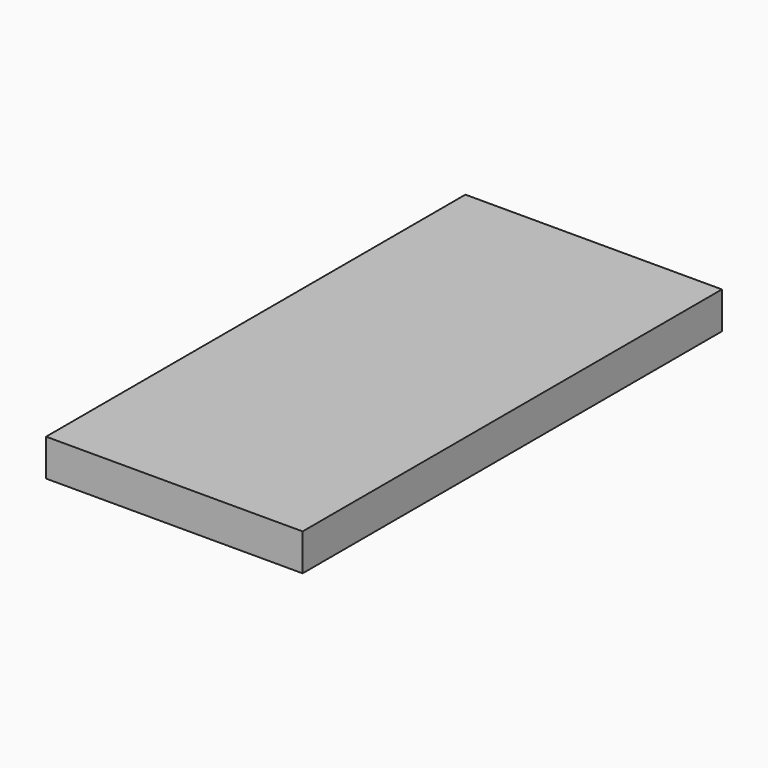
from build123d import *

# Parameters (mm, degrees)
F0_W     = 62.5
F0_H     = 127.7
F0_W_2   = 58.5
F0_H_2   = 123.7
F1_DEPTH = 9


with BuildPart() as f1:
    # F0 (on Top) → F1 (new body)
    with BuildSketch(Plane.XY):
        with Locations((31.25, 63.85)):
            Rectangle(F0_W, F0_H)
        with Locations((31.25, 63.85)):
            Rectangle(F0_W_2, F0_H_2, mode=Mode.SUBTRACT)
        with Locations((31.25, 63.85)):
            Rectangle(F0_W_2, F0_H_2)
    extrude(amount=F1_DEPTH)


solid = f1.part
